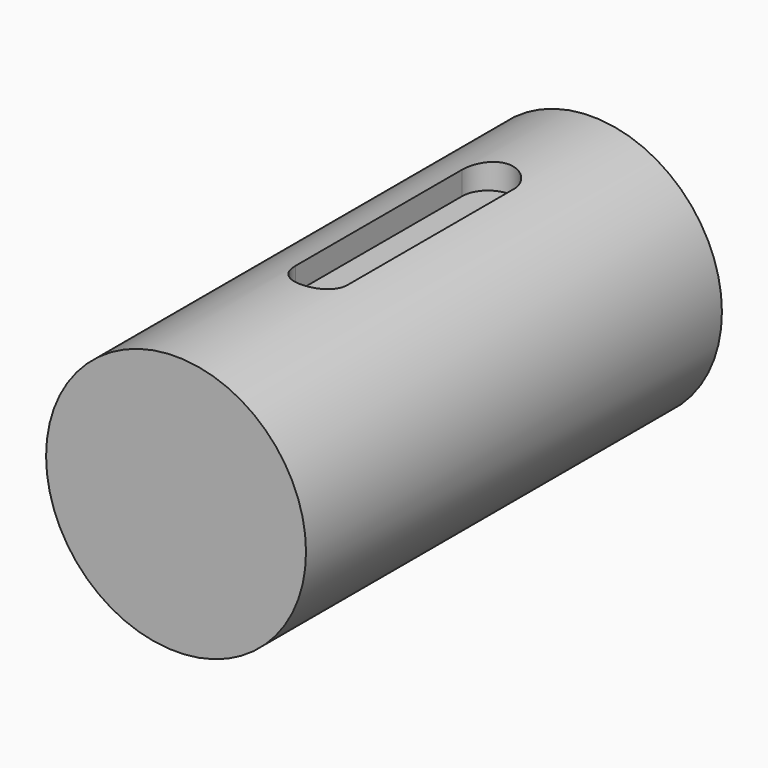
from build123d import *

# Parameters (mm, degrees)
F0_R     = 50
F1_DEPTH = 200
F4_DEPTH = 10


with BuildPart() as f1:
    # F0 (on Front) → F1 (new body)
    with BuildSketch(Plane.XZ):
        Circle(F0_R)
    extrude(amount=F1_DEPTH)

    # F3 (on offset) → F4 (cut)
    with BuildSketch(Plane.XY.offset(50)):
        with BuildLine():
            Line((-10, -50), (-10, -130))
            ThreePointArc((-10, -130), (0, -140), (10, -130))
            Line((10, -130), (10, -50))
            ThreePointArc((10, -50), (0, -40), (-10, -50))
        make_face()
    extrude(amount=-F4_DEPTH, mode=Mode.SUBTRACT)


solid = f1.part
